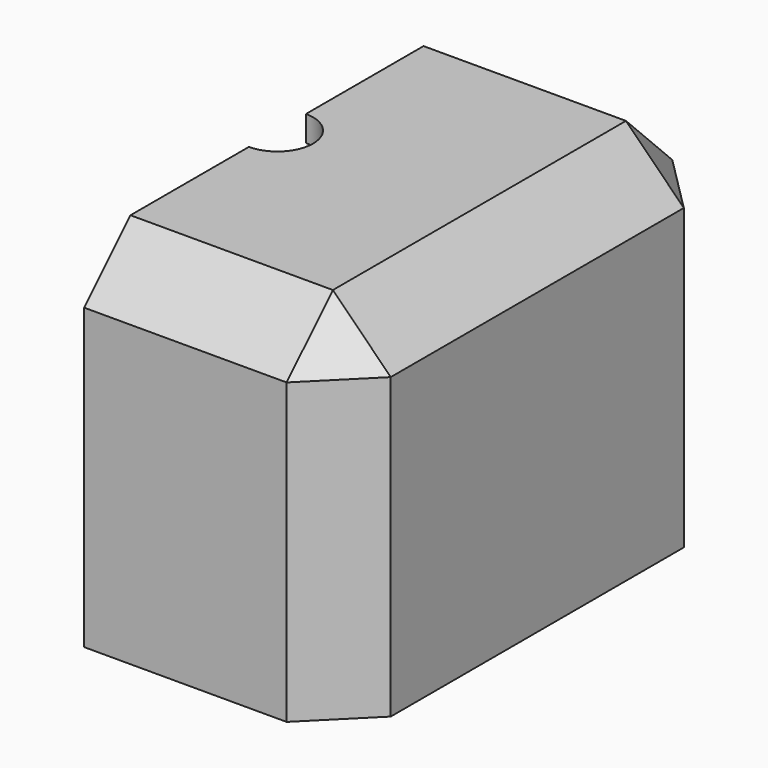
from build123d import *

# Parameters (mm, degrees)
F0_W     = 54
F0_H     = 50
F1_DEPTH = 37
F2_SIZE  = 6
F3_W     = 33.1910252571
F3_H     = 75.3957368433
F4_DEPTH = 50


with BuildPart() as f1:
    # F0 (on Top) → F1 (new body)
    with BuildSketch(Plane.XY):
        Rectangle(F0_W, F0_H)
    extrude(amount=F1_DEPTH)

    # F2
    f2_edges = [f1.edges().sort_by_distance(p)[0] for p in [
        (0, -25, 37),
        (27, 0, 37),
        (0, 25, 37),
        (-27, 0, 37),
        (27, -25, 18.5),
        (27, 25, 18.5),
        (-27, -25, 18.5),
        (-27, 25, 18.5),
    ]]
    chamfer(f2_edges, length=F2_SIZE)

    # F3 (on face) → F4 (cut)
    with BuildSketch(Plane.XY.offset(37)):
        with Locations((-16.5955126286, -0.3555361181)):
            Rectangle(F3_W, F3_H)
    extrude(amount=-F4_DEPTH, mode=Mode.SUBTRACT)

    # F5 (on face) → F6 (revolve, cut)
    with BuildSketch(Plane(origin=(0, 0, 0), x_dir=(0, -1, 0), z_dir=(-1, 0, 0))):
        with BuildLine():
            add(Edge.make_bspline(
                [(-0.0514760613, 6.0301115736), (-7.7264895663, 6.1141476035), (-15.6943520391, 4.9548925102), (-21.4225666765, 10.1482430019), (-21.3801191593, 17.9146779993), (-20.6366335968, 26.3222597751), (-20.1427475307, 30.0738309559), (-15.9227977542, 33.3885149829), (-10.3214163539, 33.7379969108), (-5.8658203301, 34.2292072611), (-3.7514760613, 34.3491211657)],
                knots=[0, 0, 0, 0, 0.1841228893, 0.2950075682, 0.4215719078, 0.5555240151, 0.642229878, 0.7414659734, 0.8575719069, 0.9488735314, 0.9488735314, 0.9488735314, 0.9488735314], degree=3))
            Line((-0.0514760613, 6.0301115736), (-0.0514760613, 34.4343753532))
            add(Edge.make_bspline(
                [(-3.7514760613, 34.3491211657), (-2.5674998016, 34.4162697462), (-1.3355556837, 34.4532156266), (-0.0514760613, 34.4343753532)],
                knots=[0.9488735314, 0.9488735314, 0.9488735314, 0.9488735314, 1, 1, 1, 1], degree=3))
        make_face()
        with BuildLine():
            Line((-3.7514760613, 37.2172761336), (-3.7514760613, 34.3491211657))
            add(Edge.make_bspline(
                [(-3.7514760613, 34.3491211657), (-2.5674998016, 34.4162697462), (-1.3355556837, 34.4532156266), (-0.0514760613, 34.4343753532)],
                knots=[0.9488735314, 0.9488735314, 0.9488735314, 0.9488735314, 1, 1, 1, 1], degree=3))
            Line((-0.0514760613, 34.4343753532), (-0.0514760613, 37.2172761336))
            Line((-0.0514760613, 37.2172761336), (-3.7514760613, 37.2172761336))
        make_face()
    revolve(axis=Axis((0, 0.0514760613, 21.6236938536), (0, 0, -1)), mode=Mode.SUBTRACT)


solid = f1.part
